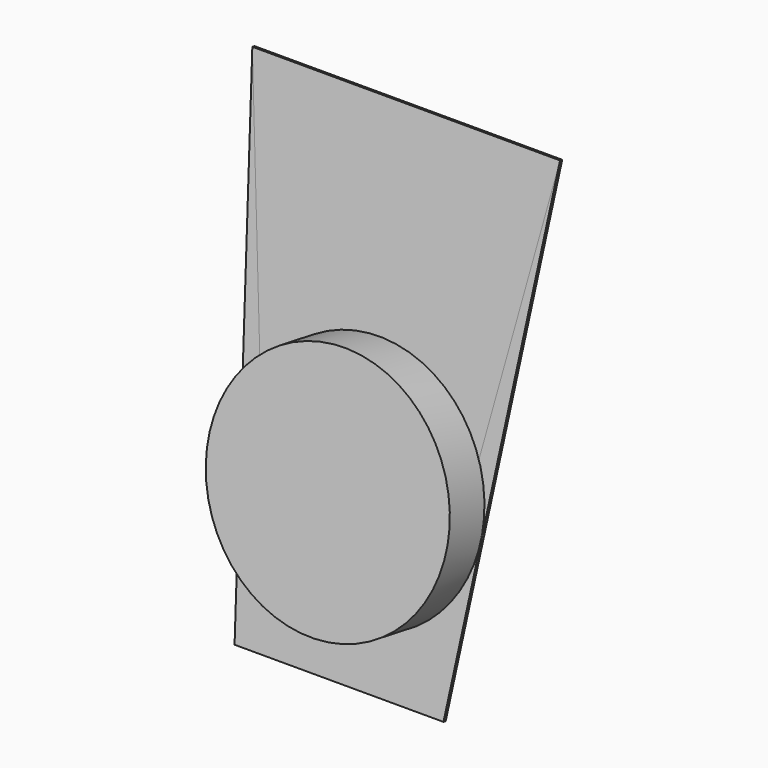
from build123d import *

# Parameters (mm, degrees)
F4_DEPTH = 3.175
F6_DEPTH = 3.175
F7_R     = 139.7
F8_DEPTH = 50.8


with BuildPart() as f4:
    # F3 (on face) → F4 (new body)
    with BuildSketch(Plane(origin=(0, 0, 0), x_dir=(-1, 0, 0), z_dir=(0, 0.984808, -0.173648))):
        Polygon((120.716058, 63.5), (177.8, 622.3), (-177.8, 622.3), (-120.716058, 63.5), align=None)
    extrude(amount=F4_DEPTH)


with BuildPart() as f6:
    # F5 (on face) → F6 (new body)
    with BuildSketch(Plane(origin=(0, 0, 0), x_dir=(-1, 0, 0), z_dir=(0, 0.984808, -0.173648))):
        Polygon((119.756252, 279.4), (177.8, 622.3), (-177.8, 622.3), (-119.756252, 279.4), align=None)
    extrude(amount=F6_DEPTH)


with BuildPart() as f8:
    # F7 (on face) → F8 (new body)
    with BuildSketch(Plane(origin=(0, 0, 0), x_dir=(-1, 0, 0), z_dir=(0, 0.984808, -0.173648))):
        with Locations((0, 258.263856)):
            Circle(F7_R)
    extrude(amount=-F8_DEPTH)


solid = Compound([f4.part, f6.part, f8.part])
